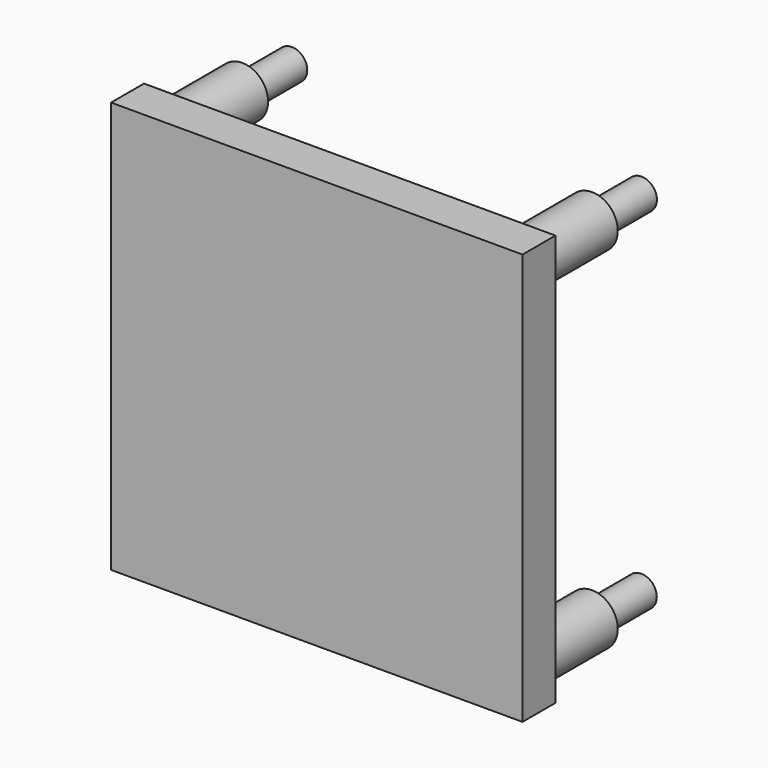
from build123d import *

# Parameters (mm, degrees)
SKETCH066_W  = 20
SKETCH066_H  = 20
PAD025_DEPTH = 2
SKETCH067_R  = 1.25
PAD026_DEPTH = 4
SKETCH068_R  = 0.75
PAD027_DEPTH = 3


with BuildPart() as part:
    # Sketch066 → Pad025 (new body)
    with BuildSketch(Plane.XZ):
        with Locations((92.5474607125, -51.3671462774)):
            Rectangle(SKETCH066_W, SKETCH066_H)
    extrude(amount=PAD025_DEPTH)

    # Sketch067 (on Face5 of Pad025) → Pad026 (join)
    with BuildSketch(Plane(origin=(0, 0, 0), x_dir=(1, 0, 0), z_dir=(0, 1, 0))):
        with Locations((84.128586, 59.880451)):
            Circle(SKETCH067_R)
        with Locations((101.127403, 59.880451)):
            Circle(SKETCH067_R)
        with Locations((101.127403, 42.843773)):
            Circle(SKETCH067_R)
        with Locations((84.128586, 42.843773)):
            Circle(SKETCH067_R)
    extrude(amount=PAD026_DEPTH)

    # Sketch068 (on Face14 of Pad026) → Pad027 (join)
    with BuildSketch(Plane(origin=(0, 4, 0), x_dir=(1, 0, 0), z_dir=(0, 1, 0))):
        with Locations((84.117188, 59.896854)):
            Circle(SKETCH068_R)
        with Locations((101.122879, 59.897358)):
            Circle(SKETCH068_R)
        with Locations((101.130592, 42.899231)):
            Circle(SKETCH068_R)
        with Locations((84.133583, 42.881302)):
            Circle(SKETCH068_R)
    extrude(amount=PAD027_DEPTH)


with BuildPart() as part_1:
    # Body009 placement: moved
    add(part.part.moved(Location((0, 96, 0))))


solid = part_1.part
